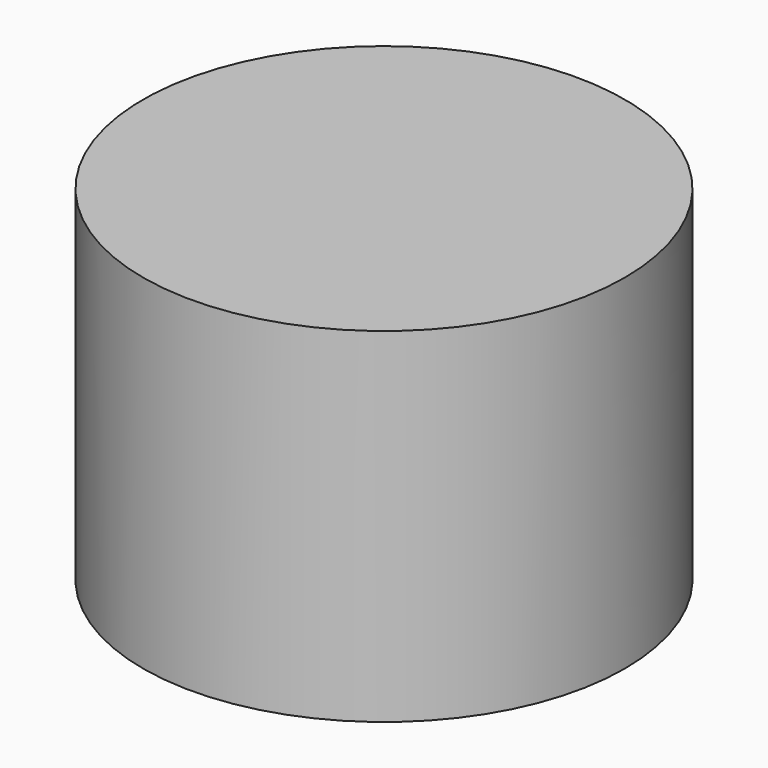
from build123d import *

# Parameters (mm, degrees)
SKETCH_R  = 0.7
PAD_DEPTH = 1


with BuildPart() as part:
    # Sketch → Pad (new body)
    with BuildSketch(Plane.XY):
        Circle(SKETCH_R)
    extrude(amount=PAD_DEPTH)


solid = part.part
